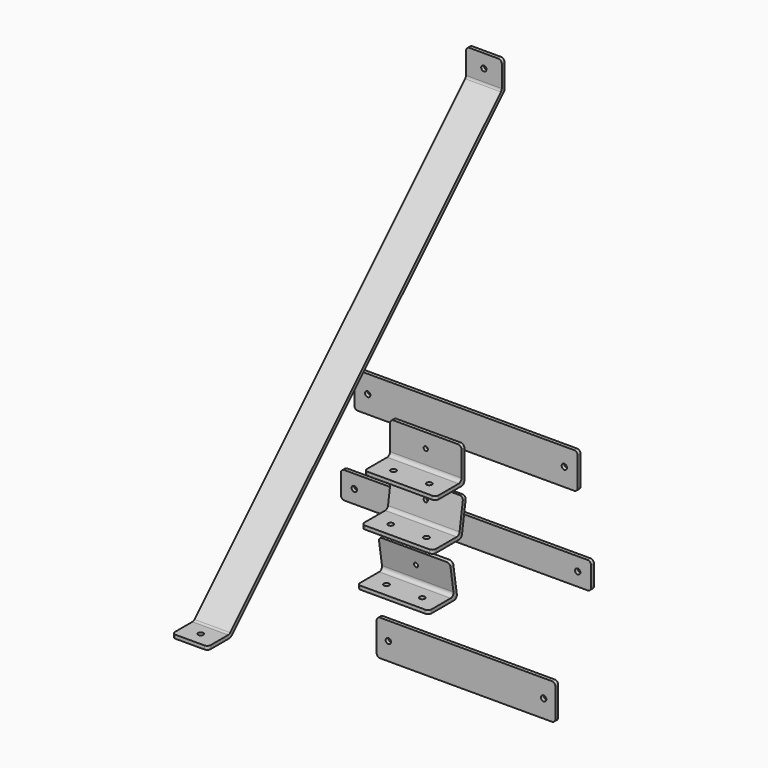
from build123d import *

# Parameters (mm, degrees)
F0_W             = 125
F0_H             = 20
F0_R             = 1.5
F1_DEPTH         = 2
F2_R             = 2
F3_W             = 140
F3_H             = 15
F3_R             = 1.5
F4_DEPTH         = 2
F5_R             = 2
F7_DEPTH         = 20
F10_D            = 3
F10_DEPTH        = 10
F10_TIP          = 0.9012909285
F10_ON_F9_D      = 3
F10_ON_F9_DEPTH  = 10
F10_ON_F9_TIP    = 0.9012909285
F11_R            = 2
F12_W            = 100
F12_H            = 20
F12_R            = 1.5
F13_DEPTH        = 2
F14_R            = 2
F15_W            = 2
F15_H            = 18
F16_DEPTH        = 40
F19_R            = 2
F21_DEPTH        = 40
F24_R            = 2
F26_DEPTH        = 40
F29_D            = 3
F29_DEPTH        = 10
F29_TIP          = 0.9012909285
F29_ON_F23_D     = 3
F29_ON_F23_DEPTH = 10
F29_ON_F23_TIP   = 0.9012909285
F29_ON_F27_D     = 3
F29_ON_F27_DEPTH = 10
F29_ON_F27_TIP   = 0.9012909285
F30_D            = 2.4
F30_DEPTH        = 10
F30_TIP          = 0.7210327428
F30_ON_F22_D     = 2.4
F30_ON_F22_DEPTH = 10
F30_ON_F22_TIP   = 0.7210327428
F30_ON_F28_D     = 2.4
F30_ON_F28_DEPTH = 10
F30_ON_F28_TIP   = 0.7210327428
F31_R            = 2


with BuildPart() as f1:
    # F0 (on Front) → F1 (new body)
    with BuildSketch(Plane.XZ):
        with Locations((0, 18.4497599971)):
            Rectangle(F0_W, F0_H)
        with Locations((-55, 18.4497599971)):
            Circle(F0_R, mode=Mode.SUBTRACT)
        with Locations((55, 18.4497599971)):
            Circle(F0_R, mode=Mode.SUBTRACT)
    extrude(amount=F1_DEPTH)

    # F2
    f2_edges = [f1.edges().sort_by_distance(p)[0] for p in [
        (-62.5, -1, 28.44976),
        (-62.5, -1, 8.44976),
        (62.5, -1, 28.44976),
        (62.5, -1, 8.44976),
    ]]
    fillet(f2_edges, radius=F2_R)


with BuildPart() as f4:
    # F3 (on Front) → F4 (new body)
    with BuildSketch(Plane.XZ):
        with Locations((0, -30.6809564592)):
            Rectangle(F3_W, F3_H)
        with Locations((-62.5, -30.6809564592)):
            Circle(F3_R, mode=Mode.SUBTRACT)
        with Locations((62.5, -30.6809564592)):
            Circle(F3_R, mode=Mode.SUBTRACT)
    extrude(amount=F4_DEPTH)

    # F5
    f5_edges = [f4.edges().sort_by_distance(p)[0] for p in [
        (-70, -1, -23.180956),
        (-70, -1, -38.180956),
        (70, -1, -23.180956),
        (70, -1, -38.180956),
    ]]
    fillet(f5_edges, radius=F5_R)


with BuildPart() as f7:
    # F6 (on Right) → F7 (new body)
    with BuildSketch(Plane.YZ):
        Polygon((0, 191.6715728753), (0, 207.5), (-2, 207.5), (-2, 192.5), (-192.5, 2), (-207.5, 2), (-207.5, 0), (-191.6715728753, 0), align=None)
    extrude(amount=F7_DEPTH)

    # F10
    with Locations(Plane.XZ.offset(2)):
        with Locations((10, 200)):
            Hole(F10_D / 2, depth=F10_DEPTH)
            with Locations((0, 0, -(F10_DEPTH + F10_TIP / 2))):  # 118° drill point
                Cone(0, F10_D / 2, F10_TIP, mode=Mode.SUBTRACT)

    # F10 on F9
    with Locations(Plane.XY.offset(2)):
        with Locations((10, -200)):
            Hole(F10_ON_F9_D / 2, depth=F10_ON_F9_DEPTH)
            with Locations((0, 0, -(F10_ON_F9_DEPTH + F10_ON_F9_TIP / 2))):  # 118° drill point
                Cone(0, F10_ON_F9_D / 2, F10_ON_F9_TIP, mode=Mode.SUBTRACT)

    # F11
    f11_edges = [f7.edges().sort_by_distance(p)[0] for p in [
        (10, -2, 192.5),
        (10, 0, 191.671573),
        (10, -191.671573, 0),
        (10, -192.5, 2),
        (0, -1, 207.5),
        (20, -1, 207.5),
        (20, -207.5, 1),
        (0, -207.5, 1),
    ]]
    fillet(f11_edges, radius=F11_R)


with BuildPart() as f13:
    # F12 (on Front) → F13 (new body)
    with BuildSketch(Plane.XZ):
        with Locations((0, -99.3749059932)):
            Rectangle(F12_W, F12_H)
        with Locations((-43.45, -99.3749059932)):
            Circle(F12_R, mode=Mode.SUBTRACT)
        with Locations((43.45, -99.3749059932)):
            Circle(F12_R, mode=Mode.SUBTRACT)
    extrude(amount=F13_DEPTH)

    # F14
    f14_edges = [f13.edges().sort_by_distance(p)[0] for p in [
        (-50, -1, -89.374906),
        (-50, -1, -109.374906),
        (50, -1, -89.374906),
        (50, -1, -109.374906),
    ]]
    fillet(f14_edges, radius=F14_R)


with BuildPart() as f16:
    # F15 (on Right) → F16 (new body)
    with BuildSketch(Plane.YZ):
        with Locations((-54.1392371425, 36.6483518409)):
            Rectangle(F15_W, F15_H)
        Polygon((-53.1392371425, 25.6483518409), (-53.1392371425, 27.6483518409), (-55.1392371425, 27.6483518409), (-73.1392371425, 27.6483518409), (-73.1392371425, 25.6483518409), align=None)
    extrude(amount=F16_DEPTH)

    # F19
    f19_edges = [f16.edges().sort_by_distance(p)[0] for p in [
        (20, -55.139237, 27.648352),
        (20, -53.139237, 25.648352),
        (0, -54.139237, 45.648352),
        (40, -54.139237, 45.648352),
        (40, -73.139237, 26.648352),
        (0, -73.139237, 26.648352),
    ]]
    fillet(f19_edges, radius=F19_R)

    # F29
    with Locations(Plane.XY.offset(27.6483518409)):
        with Locations((10, -65.1392371425), (30, -65.1392371425)):
            Hole(F29_D / 2, depth=F29_DEPTH)
            with Locations((0, 0, -(F29_DEPTH + F29_TIP / 2))):  # 118° drill point
                Cone(0, F29_D / 2, F29_TIP, mode=Mode.SUBTRACT)

    # F30
    with Locations(Plane.XZ.offset(55.1392371425)):
        with Locations((20, 37.6483518409)):
            Hole(F30_D / 2, depth=F30_DEPTH)
            with Locations((0, 0, -(F30_DEPTH + F30_TIP / 2))):  # 118° drill point
                Cone(0, F30_D / 2, F30_TIP, mode=Mode.SUBTRACT)


with BuildPart() as f21:
    # F20 (on Right) → F21 (new body)
    with BuildSketch(Plane.YZ):
        Polygon((-75.0856169772, 2), (-75.0856169772, 0), (-55.0856169772, 0), (-51.9569276764, 19.7537668119), (-53.9323043576, 20.066635742), (-56.7937783482, 2), align=None)
    extrude(amount=F21_DEPTH)

    # F24
    f24_edges = [f21.edges().sort_by_distance(p)[0] for p in [
        (20, -56.793778, 2),
        (20, -55.085617, 0),
        (0, -52.944616, 19.910201),
        (0, -75.085617, 1),
        (40, -75.085617, 1),
        (40, -52.944616, 19.910201),
    ]]
    fillet(f24_edges, radius=F24_R)

    # F29 on F23 (one way)
    with BuildSketch(Plane.XY.offset(2)):
        with Locations((30, -67.0856169772), (10, -67.0856169772)):
            Circle(F29_ON_F23_D / 2)
    extrude(amount=-F29_ON_F23_DEPTH, mode=Mode.SUBTRACT)
    with Locations(Plane.XY.offset(2)):
        with Locations((30, -67.0856169772), (10, -67.0856169772)):
            with Locations((0, 0, -(F29_ON_F23_DEPTH + F29_ON_F23_TIP / 2))):  # 118° drill point
                Cone(0, F29_ON_F23_D / 2, F29_ON_F23_TIP, mode=Mode.SUBTRACT)

    # F30 on F22
    with Locations(Plane(origin=(0, -53.7375759788, 8.5111958958), x_dir=(-1, 0, 0), z_dir=(0, 0.9876883406, -0.156434465))):
        with Locations((-20, 3.6827109768)):
            Hole(F30_ON_F22_D / 2, depth=F30_ON_F22_DEPTH)
            with Locations((0, 0, -(F30_ON_F22_DEPTH + F30_ON_F22_TIP / 2))):  # 118° drill point
                Cone(0, F30_ON_F22_D / 2, F30_ON_F22_TIP, mode=Mode.SUBTRACT)


with BuildPart() as f26:
    # F25 (on Right) → F26 (new body)
    with BuildSketch(Plane.YZ):
        Polygon((-78.0513847571, -26.4961942312), (-78.0513847571, -28.4961942312), (-58.0513847571, -28.4961942312), (-61.1800740579, -8.7424274193), (-63.1554507391, -9.0552963494), (-60.3930838894, -26.4961942312), align=None)
    extrude(amount=F26_DEPTH)

    # F29 on F27 (one way)
    with BuildSketch(Plane.XY.offset(-26.4961942312)):
        with Locations((10, -70.0513847571), (30, -70.0513847571)):
            Circle(F29_ON_F27_D / 2)
    extrude(amount=-F29_ON_F27_DEPTH, mode=Mode.SUBTRACT)
    with Locations(Plane.XY.offset(-26.4961942312)):
        with Locations((10, -70.0513847571), (30, -70.0513847571)):
            with Locations((0, 0, -(F29_ON_F27_DEPTH + F29_ON_F27_TIP / 2))):  # 118° drill point
                Cone(0, F29_ON_F27_D / 2, F29_ON_F27_TIP, mode=Mode.SUBTRACT)

    # F30 on F28
    with Locations(Plane(origin=(0, -63.0090470826, -9.9796526576), x_dir=(1, 0, 0), z_dir=(0, -0.9876883406, -0.156434465))):
        with Locations((20, -7.0641214742)):
            Hole(F30_ON_F28_D / 2, depth=F30_ON_F28_DEPTH)
            with Locations((0, 0, -(F30_ON_F28_DEPTH + F30_ON_F28_TIP / 2))):  # 118° drill point
                Cone(0, F30_ON_F28_D / 2, F30_ON_F28_TIP, mode=Mode.SUBTRACT)

    # F31
    f31_edges = [f26.edges().sort_by_distance(p)[0] for p in [
        (20, -60.393084, -26.496194),
        (20, -58.051385, -28.496194),
        (40, -62.167762, -8.898862),
        (0, -62.167762, -8.898862),
        (0, -78.051385, -27.496194),
        (40, -78.051385, -27.496194),
    ]]
    fillet(f31_edges, radius=F31_R)


solid = Compound([f1.part, f4.part, f7.part, f13.part, f16.part, f21.part, f26.part])
